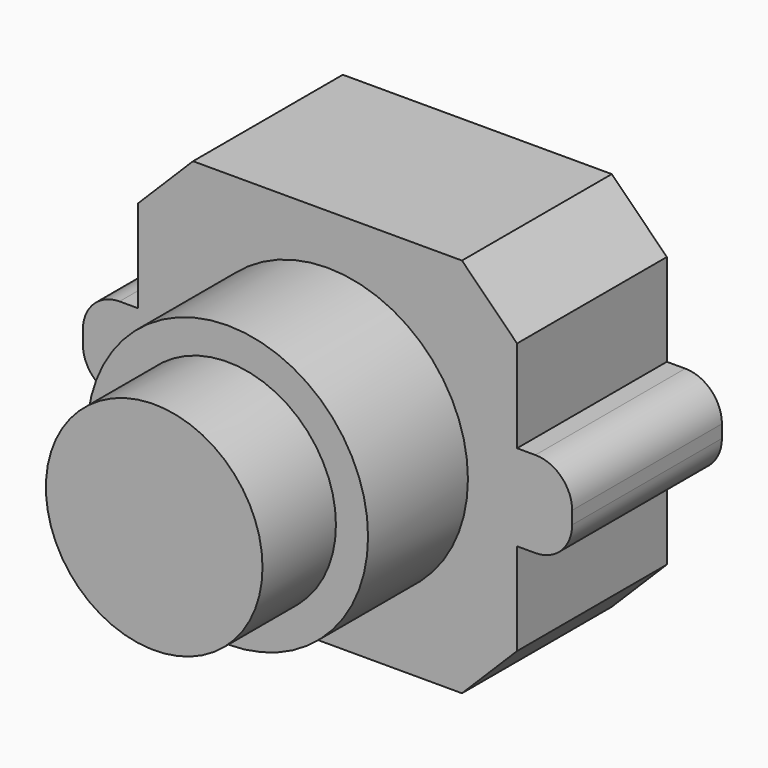
from build123d import *

# Parameters (mm, degrees)
F1_DEPTH = 10.2
F2_R     = 2
F3_R     = 7.65
F4_DEPTH = 6.8
F5_SIZE  = 3
F6_R     = 5.9
F7_DEPTH = 5


with BuildPart() as f1:
    # F0 (on Front) → F1 (new body)
    with BuildSketch(Plane.XZ):
        Polygon((10.325, 2.35), (10.325, 10.375), (-10.325, 10.375), (-10.325, 2.35), (-13.325, 2.35), (-13.325, -2.35), (-10.325, -2.35), (-10.325, -10.375), (10.325, -10.375), (10.325, -2.35), (13.325, -2.35), (13.325, 2.35), align=None)
    extrude(amount=F1_DEPTH)

    # F2
    f2_edges = [f1.edges().sort_by_distance(p)[0] for p in [
        (-13.325, -5.1, -2.35),
        (-13.325, -5.1, 2.35),
        (13.325, -5.1, -2.35),
        (13.325, -5.1, 2.35),
    ]]
    fillet(f2_edges, radius=F2_R)

    # F3 (on face) → F4 (join)
    with BuildSketch(Plane.XZ.offset(10.2)):
        Circle(F3_R)
    extrude(amount=F4_DEPTH)

    # F5
    f5_edges = [f1.edges().sort_by_distance(p)[0] for p in [
        (-10.325, -5.1, -10.375),
        (-10.325, -5.1, 10.375),
        (10.325, -5.1, -10.375),
        (10.325, -5.1, 10.375),
    ]]
    chamfer(f5_edges, length=F5_SIZE)

    # F6 (on face) → F7 (join)
    with BuildSketch(Plane.XZ.offset(17)):
        Circle(F6_R)
    extrude(amount=F7_DEPTH)


solid = f1.part
